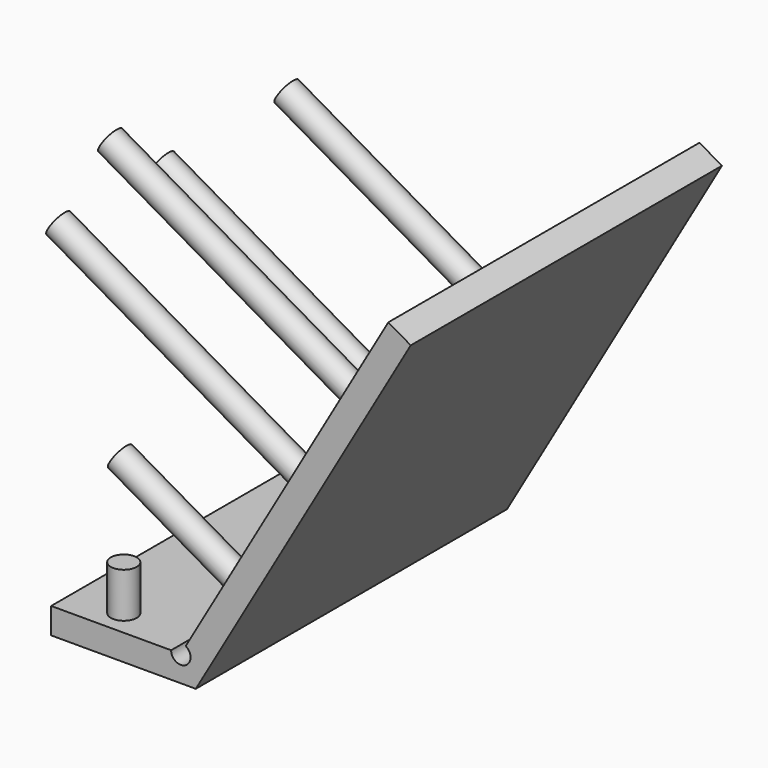
from build123d import *

# Parameters (mm, degrees)
F1_DEPTH = 190.5
F2_R     = 6.35
F4_DEPTH = 21.9964
F3_R     = 6.35
F5_DEPTH = 68.1482
F6_DEPTH = 139.7


with BuildPart() as f1:
    # F0 (on Front) → F1 (new body)
    with BuildSketch(Plane.XZ):
        with BuildLine():
            Line((58.745752, 0), (0, 0))
            Line((0, 0), (0, -12.7))
            Line((0, -12.7), (70.8406, -12.7))
            Line((70.8406, -12.7), (176.1109, 169.633508))
            Line((176.1109, 169.633508), (165.112377, 175.983508))
            Line((165.112377, 175.983508), (65.889502, 4.124446))
            ThreePointArc((65.889502, 4.124446), (65.889502, -4.124446), (58.745752, 0))
        make_face()
    extrude(amount=F1_DEPTH)

    # F2 (on face) → F4 (join)
    with BuildSketch(Plane.XY):
        with Locations((25.4, -177.8)):
            Circle(F2_R)
    extrude(amount=F4_DEPTH)

    # F3 (on face) → F5 (join)
    with BuildSketch(Plane(origin=(47.631189, 0, -27.49988), x_dir=(0, -1, 0), z_dir=(-0.866025, 0, 0.5))):
        with Locations((177.8, 69.862377)):
            Circle(F3_R)
    extrude(amount=F5_DEPTH)

    # F3 (on face) → F6 (join)
    with BuildSketch(Plane(origin=(47.631189, 0, -27.49988), x_dir=(0, -1, 0), z_dir=(-0.866025, 0, 0.5))):
        with Locations((177.8, 133.362377)):
            Circle(F3_R)
        with Locations((114.3, 133.362377)):
            Circle(F3_R)
        with Locations((38.1, 133.362377)):
            Circle(F3_R)
        with Locations((177.8, 184.162377)):
            Circle(F3_R)
    extrude(amount=F6_DEPTH)


solid = f1.part
